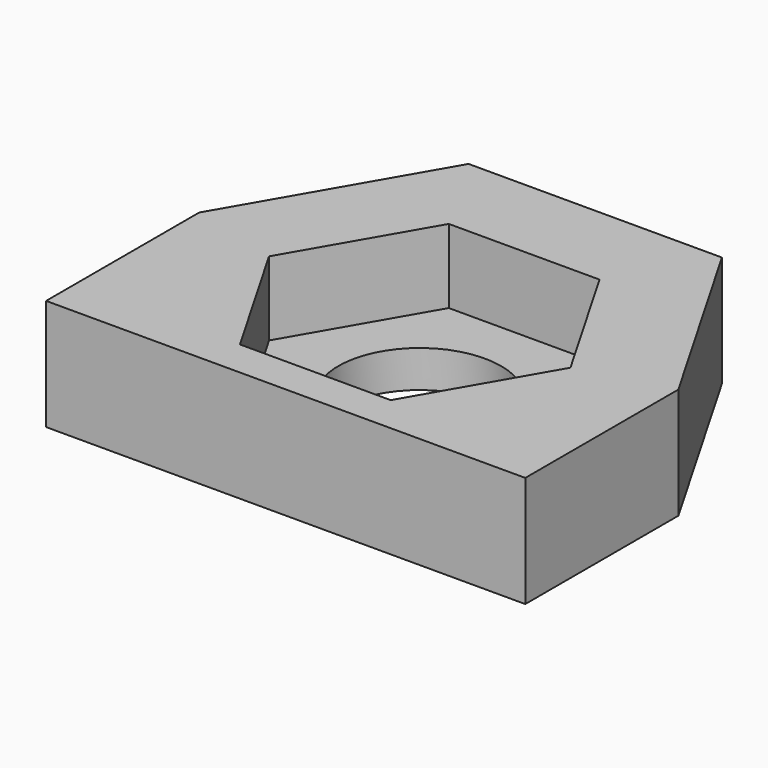
from build123d import *

# Parameters (mm, degrees)
SKETCH_R     = 2.2
PAD_DEPTH    = 3
POCKET_DEPTH = 2


with BuildPart() as part:
    # Sketch → Pad (new body)
    with BuildSketch(Plane.XY):
        Polygon((6.470319, -4.525), (-6.470319, -4.525), (-6.470319, 0.643078), (-3.4208, 5.925), (3.4208, 5.925), (6.470319, 0.643078), align=None)
        Circle(SKETCH_R, mode=Mode.SUBTRACT)
    extrude(amount=PAD_DEPTH)

    # Sketch001 → Pocket (cut)
    with BuildSketch(Plane.XY.offset(3)):
        Polygon((4.070319, 0), (2.03516, 3.525), (-2.03516, 3.525), (-4.070319, 0), (-2.03516, -3.525), (2.03516, -3.525), align=None)
    extrude(amount=-POCKET_DEPTH, mode=Mode.SUBTRACT)


solid = part.part
